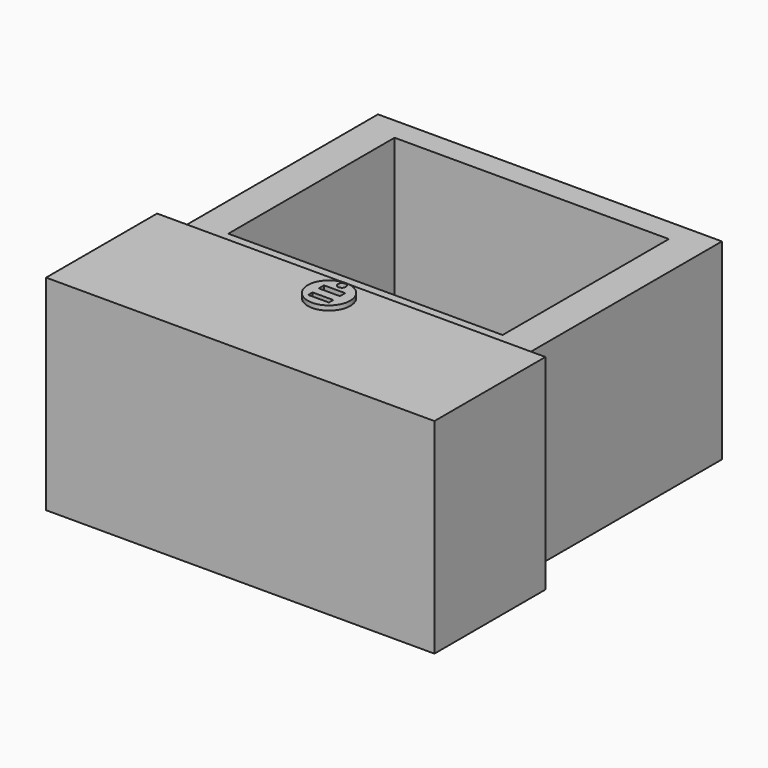
from build123d import *

# Parameters (mm, degrees)
F0_W      = 236.721322
F0_H      = 124.82763
F1_DEPTH  = 84.582
F2_W      = 209.650278
F2_H      = 117.007106
F3_DEPTH  = 151.384
F4_W      = 167.194322
F4_H      = 126.676479
F5_DEPTH  = 106.934
F6_R      = 12.932429
F7_DEPTH  = 2.794
F8_W      = 12.893153
F8_H      = 4.004114
F8_W_2    = 12.566442
F8_H_2    = 3.328527
F9_DEPTH  = 14.732
F10_R     = 2.422057
F11_DEPTH = 25.4


with BuildPart() as f1:
    # F0 (on Front) → F1 (new body)
    with BuildSketch(Plane.XZ):
        Rectangle(F0_W, F0_H)
    extrude(amount=F1_DEPTH)

    # F2 (on face) → F3 (join)
    with BuildSketch(Plane(origin=(0, 0, 0), x_dir=(-1, 0, 0), z_dir=(0, 1, 0))):
        Rectangle(F2_W, F2_H)
    extrude(amount=F3_DEPTH)

    # F4 (on face) → F5 (cut)
    with BuildSketch(Plane.XY.offset(58.503553)):
        with Locations((0, 74.151702)):
            Rectangle(F4_W, F4_H)
    extrude(amount=-F5_DEPTH, mode=Mode.SUBTRACT)

    # F6 (on face) → F7 (join)
    with BuildSketch(Plane.XY.offset(62.413815)):
        with Locations((0, -16.961597)):
            Circle(F6_R)
    extrude(amount=F7_DEPTH)

    # F8 (on face) → F9 (cut)
    with BuildSketch(Plane.XY.offset(65.207815)):
        with Locations((-0.298541, -14.347668)):
            Rectangle(F8_W, F8_H)
        with Locations((-0.135185, -23.072623)):
            Rectangle(F8_W_2, F8_H_2)
    extrude(amount=-F9_DEPTH, mode=Mode.SUBTRACT)

    # F10 (on face) → F11 (cut)
    with BuildSketch(Plane.XY.offset(65.207815)):
        with Locations((0, -7.139143)):
            Circle(F10_R)
    extrude(amount=-F11_DEPTH, mode=Mode.SUBTRACT)


solid = f1.part
